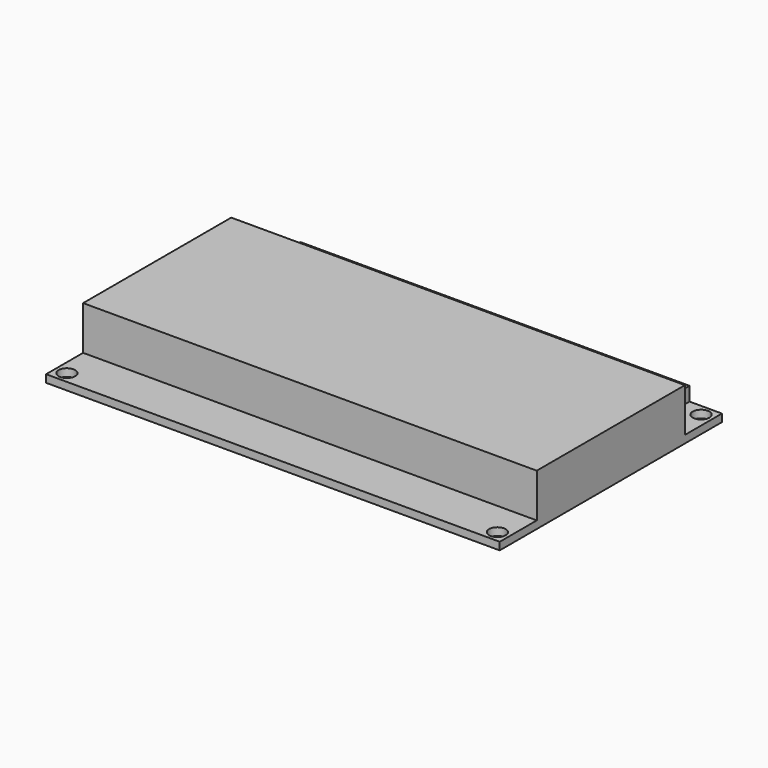
from build123d import *

# Parameters (mm, degrees)
F0_W     = 98
F0_H     = 60
F0_R     = 1.8
F1_DEPTH = 1.64
F2_W     = 98
F2_H     = 40
F3_DEPTH = 9.46
F4_W     = 84
F4_H     = 4
F5_DEPTH = 3
F7_DEPTH = 15


with BuildPart() as f1:
    # F0 (on Top) → F1 (new body)
    with BuildSketch(Plane.XY):
        Rectangle(F0_W, F0_H)
        with Locations((-46.5, -27.5)):
            Circle(F0_R, mode=Mode.SUBTRACT)
        with Locations((46.5, -27.5)):
            Circle(F0_R, mode=Mode.SUBTRACT)
        with Locations((-46.5, 27.5)):
            Circle(F0_R, mode=Mode.SUBTRACT)
        with Locations((46.5, 27.5)):
            Circle(F0_R, mode=Mode.SUBTRACT)
    extrude(amount=F1_DEPTH)

    # F2 (on face) → F3 (join)
    with BuildSketch(Plane.XY.offset(1.64)):
        Rectangle(F2_W, F2_H)
    extrude(amount=F3_DEPTH)

    # F4 (on face) → F5 (join)
    with BuildSketch(Plane.XY.offset(1.64)):
        with Locations((0, 28)):
            Rectangle(F4_W, F4_H)
    extrude(amount=F5_DEPTH)

    # F6 (on face) → F7 (join)
    with BuildSketch(Plane(origin=(0, 0, 0), x_dir=(1, 0, 0), z_dir=(0, 0, -1))):
        Polygon((11, -8), (-49, -8), (-49, -25), (-44, -25), (-44, -30), (11, -30), align=None)
    extrude(amount=F7_DEPTH)


solid = f1.part
